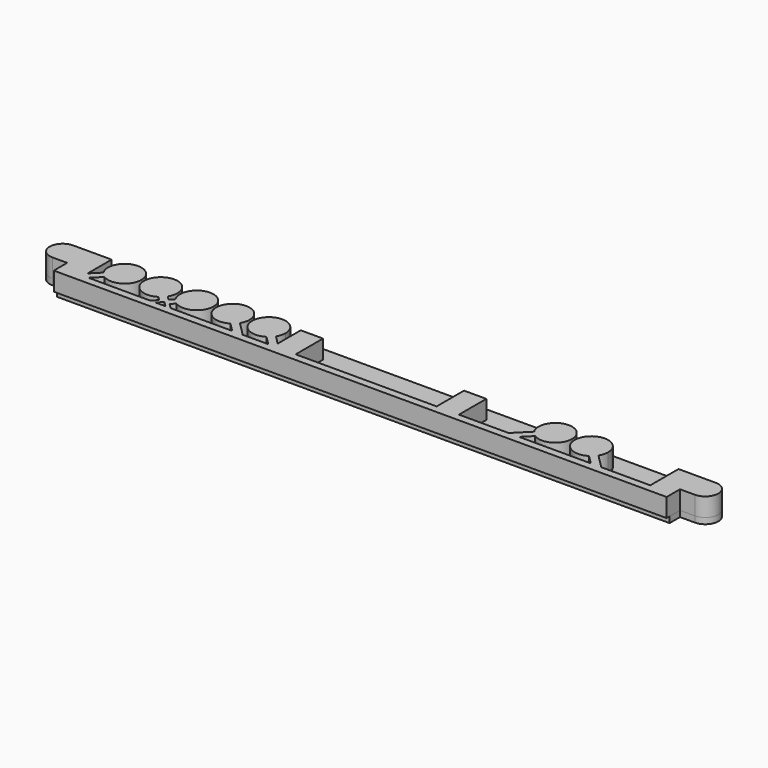
from build123d import *

# Parameters (mm, degrees)
F0_R     = 1.7
F0_R_2   = 1.914667213
F1_DEPTH = 1.6
F3_DEPTH = 5


with BuildPart() as f1:
    # F0 (on Top) → F1 (new body)
    with BuildSketch(Plane.XY):
        with BuildLine():
            Line((-82.45, -7), (0, -7))
            Line((0, -7), (82.45, -7))
            Line((82.45, -7), (82.45, -3.5))
            Line((82.45, -3.5), (86.45, -3.5))
            ThreePointArc((86.45, -3.5), (89.95, 0), (86.45, 3.5))
            Line((86.45, 3.5), (82.45, 3.5))
            Line((82.45, 3.5), (82.45, 7))
            Line((82.45, 7), (0, 7))
            Line((0, 7), (-82.45, 7))
            Line((-82.45, 7), (-82.45, 3.5))
            Line((-82.45, 3.5), (-86.45, 3.5))
            ThreePointArc((-86.45, 3.5), (-89.95, 0), (-86.45, -3.5))
            Line((-86.45, -3.5), (-82.45, -3.5))
            Line((-82.45, -3.5), (-82.45, -7))
        make_face()
        with Locations((-86.45, 0)):
            Circle(F0_R, mode=Mode.SUBTRACT)
        with Locations((-69.93, 0.2)):
            Circle(F0_R_2, mode=Mode.SUBTRACT)
        with Locations((-60.23, 0.2)):
            Circle(F0_R_2, mode=Mode.SUBTRACT)
        with Locations((-50.53, 0.2)):
            Circle(F0_R_2, mode=Mode.SUBTRACT)
        with Locations((-40.83, 0.2)):
            Circle(F0_R_2, mode=Mode.SUBTRACT)
        with Locations((-31.13, 0.2)):
            Circle(F0_R_2, mode=Mode.SUBTRACT)
        with Locations((45.95, 0.2)):
            Circle(F0_R_2, mode=Mode.SUBTRACT)
        with Locations((55.65, 0.2)):
            Circle(F0_R_2, mode=Mode.SUBTRACT)
        with Locations((86.45, 0)):
            Circle(F0_R, mode=Mode.SUBTRACT)
    extrude(amount=F1_DEPTH)


with BuildPart() as f3:
    # F2 (on face) → F3 (new body)
    with BuildSketch(Plane.XY.offset(1.6)):
        with BuildLine():
            Line((-76.094667213, 3.5), (-82.45, 3.5))
            Line((-82.45, 3.5), (-86.45, 3.5))
            ThreePointArc((-86.45, 3.5), (-89.95, 0), (-86.45, -3.5))
            Line((-86.45, -3.5), (-82.45, -3.5))
            Line((-82.45, -3.5), (-82.45, -7))
            Line((-82.45, -7), (-82.45, -8))
            Line((-82.45, -8), (-77.13, -8))
            ThreePointArc((-77.13, -8), (-78.0538795325, -7.3826834324), (-77.8371067812, -6.2928932188))
            Line((-77.8371067812, -6.2928932188), (-76.094667213, -4.5504536506))
            Line((-76.094667213, -4.5504536506), (-76.094667213, 3.5))
        make_face()
        with BuildLine():
            Line((-73.7395251927, -2.1953116303), (-76.094667213, -4.5504536506))
            Line((-76.094667213, -4.5504536506), (-76.094667213, -5.964667213))
            Line((-76.094667213, -5.964667213), (-73.1119805153, -2.9819805153))
            ThreePointArc((-73.1119805153, -2.9819805153), (-73.4478118199, -2.6062430401), (-73.7395251927, -2.1953116303))
        make_face()
        with BuildLine():
            Line((-76.094667213, -5.964667213), (-76.094667213, -4.5504536506))
            Line((-76.094667213, -4.5504536506), (-77.8371067812, -6.2928932188))
            ThreePointArc((-77.8371067812, -6.2928932188), (-78.0538795325, -7.3826834324), (-77.13, -8))
            ThreePointArc((-77.13, -8), (-76.7473165676, -7.9238795325), (-76.4228932188, -7.7071067812))
            Line((-76.4228932188, -7.7071067812), (-74.7157864376, -6))
            Line((-74.7157864376, -6), (-76.094667213, -6))
            Line((-76.094667213, -6), (-76.094667213, -5.964667213))
        make_face()
        with BuildLine():
            Line((-73.1119805153, -2.9819805153), (-76.094667213, -5.964667213))
            Line((-76.094667213, -5.964667213), (-76.094667213, -6))
            Line((-76.094667213, -6), (-74.7157864376, -6))
            Line((-74.7157864376, -6), (-72.3253116303, -3.6095251927))
            ThreePointArc((-72.3253116303, -3.6095251927), (-72.7362430401, -3.3178118199), (-73.1119805153, -2.9819805153))
        make_face()
        with BuildLine():
            ThreePointArc((-65.43, 0.2), (-71.1764222063, 4.5239370582), (-73.7395251927, -2.1953116303))
            Line((-73.7395251927, -2.1953116303), (-70.6371067812, 0.9071067812))
            ThreePointArc((-70.6371067812, 0.9071067812), (-69.2228932188, 0.9071067812), (-69.2228932188, -0.5071067812))
            Line((-69.2228932188, -0.5071067812), (-72.3253116303, -3.6095251927))
            ThreePointArc((-72.3253116303, -3.6095251927), (-67.753868379, -3.7388388096), (-65.43, 0.2))
        make_face()
        with BuildLine():
            Line((-70.6371067812, 0.9071067812), (-73.7395251927, -2.1953116303))
            ThreePointArc((-73.7395251927, -2.1953116303), (-73.4478118199, -2.6062430401), (-73.1119805153, -2.9819805153))
            ThreePointArc((-73.1119805153, -2.9819805153), (-72.7362430401, -3.3178118199), (-72.3253116303, -3.6095251927))
            Line((-72.3253116303, -3.6095251927), (-69.2228932188, -0.5071067812))
            ThreePointArc((-69.2228932188, -0.5071067812), (-69.2228932188, 0.9071067812), (-70.6371067812, 0.9071067812))
        make_face()
        with BuildLine():
            ThreePointArc((-76.4228932188, -7.7071067812), (-76.7473165676, -7.9238795325), (-77.13, -8))
            Line((-77.13, -8), (-57.73, -8))
            ThreePointArc((-57.73, -8), (-58.6538795325, -7.3826834324), (-58.4371067812, -6.2928932188))
            Line((-58.4371067812, -6.2928932188), (-58.1442135624, -6))
            Line((-58.1442135624, -6), (-74.7157864376, -6))
            Line((-74.7157864376, -6), (-76.4228932188, -7.7071067812))
        make_face()
        with BuildLine():
            ThreePointArc((-57.0228932188, -7.7071067812), (-57.3473165676, -7.9238795325), (-57.73, -8))
            Line((-57.73, -8), (-53.03, -8))
            ThreePointArc((-53.03, -8), (-53.4126834324, -7.9238795325), (-53.7371067812, -7.7071067812))
            Line((-53.7371067812, -7.7071067812), (-55.38, -6.0642135624))
            Line((-55.38, -6.0642135624), (-57.0228932188, -7.7071067812))
        make_face()
        with BuildLine():
            ThreePointArc((-58.4371067812, -6.2928932188), (-58.6538795325, -7.3826834324), (-57.73, -8))
            ThreePointArc((-57.73, -8), (-57.3473165676, -7.9238795325), (-57.0228932188, -7.7071067812))
            Line((-57.0228932188, -7.7071067812), (-55.38, -6.0642135624))
            Line((-55.38, -6.0642135624), (-55.4442135624, -6))
            Line((-55.4442135624, -6), (-56.73, -6))
            Line((-56.73, -6), (-58.1442135624, -6))
            Line((-58.1442135624, -6), (-58.4371067812, -6.2928932188))
        make_face()
        Polygon((-56.7942135624, -4.65), (-58.1442135624, -6), (-56.73, -6), (-56.0871067812, -5.3571067812), align=None)
        with BuildLine():
            ThreePointArc((-52.3228932188, -6.2928932188), (-52.1061204675, -7.3826834324), (-53.03, -8))
            Line((-53.03, -8), (-33.63, -8))
            ThreePointArc((-33.63, -8), (-34.0126834324, -7.9238795325), (-34.3371067812, -7.7071067812))
            Line((-34.3371067812, -7.7071067812), (-36.0442135624, -6))
            Line((-36.0442135624, -6), (-52.6157864376, -6))
            Line((-52.6157864376, -6), (-52.3228932188, -6.2928932188))
        make_face()
        with BuildLine():
            ThreePointArc((-53.7371067812, -7.7071067812), (-53.4126834324, -7.9238795325), (-53.03, -8))
            ThreePointArc((-53.03, -8), (-52.1061204675, -7.3826834324), (-52.3228932188, -6.2928932188))
            Line((-52.3228932188, -6.2928932188), (-52.6157864376, -6))
            Line((-52.6157864376, -6), (-54.03, -6))
            Line((-54.03, -6), (-55.3157864376, -6))
            Line((-55.3157864376, -6), (-55.38, -6.0642135624))
            Line((-55.38, -6.0642135624), (-53.7371067812, -7.7071067812))
        make_face()
        Polygon((-56.0871067812, -3.9428932188), (-56.7942135624, -4.65), (-56.0871067812, -5.3571067812), (-55.38, -4.65), align=None)
        with BuildLine():
            Line((-57.8346883697, -3.6095251927), (-56.7942135624, -4.65))
            Line((-56.7942135624, -4.65), (-56.0871067812, -3.9428932188))
            Line((-56.0871067812, -3.9428932188), (-57.0480194847, -2.9819805153))
            ThreePointArc((-57.0480194847, -2.9819805153), (-57.4237569599, -3.3178118199), (-57.8346883697, -3.6095251927))
        make_face()
        with BuildLine():
            ThreePointArc((-32.9228932188, -6.2928932188), (-32.7061204675, -7.3826834324), (-33.63, -8))
            Line((-33.63, -8), (-23.9299999506, -8))
            ThreePointArc((-23.9299999506, -8), (-24.3126834095, -7.923879542), (-24.6371067812, -7.7071067812))
            Line((-24.6371067812, -7.7071067812), (-26.3442135624, -6))
            Line((-26.3442135624, -6), (-33.2157864376, -6))
            Line((-33.2157864376, -6), (-32.9228932188, -6.2928932188))
        make_face()
        with BuildLine():
            ThreePointArc((-34.3371067812, -7.7071067812), (-34.0126834324, -7.9238795325), (-33.63, -8))
            ThreePointArc((-33.63, -8), (-32.7061204675, -7.3826834324), (-32.9228932188, -6.2928932188))
            Line((-32.9228932188, -6.2928932188), (-33.2157864376, -6))
            Line((-33.2157864376, -6), (-34.63, -6))
            Line((-34.63, -6), (-36.0442135624, -6))
            Line((-36.0442135624, -6), (-34.3371067812, -7.7071067812))
        make_face()
        with BuildLine():
            ThreePointArc((-55.73, 0.2), (-64.1688388096, 2.376131621), (-57.8346883697, -3.6095251927))
            Line((-57.8346883697, -3.6095251927), (-60.9371067812, -0.5071067812))
            ThreePointArc((-60.9371067812, -0.5071067812), (-60.9371067812, 0.9071067812), (-59.5228932188, 0.9071067812))
            Line((-59.5228932188, 0.9071067812), (-56.4204748073, -2.1953116303))
            ThreePointArc((-56.4204748073, -2.1953116303), (-55.9060629418, -1.0464222063), (-55.73, 0.2))
        make_face()
        with BuildLine():
            Line((-60.9371067812, -0.5071067812), (-57.8346883697, -3.6095251927))
            ThreePointArc((-57.8346883697, -3.6095251927), (-57.4237569599, -3.3178118199), (-57.0480194847, -2.9819805153))
            ThreePointArc((-57.0480194847, -2.9819805153), (-56.7121881801, -2.6062430401), (-56.4204748073, -2.1953116303))
            Line((-56.4204748073, -2.1953116303), (-59.5228932188, 0.9071067812))
            ThreePointArc((-59.5228932188, 0.9071067812), (-60.9371067812, 0.9071067812), (-60.9371067812, -0.5071067812))
        make_face()
        Polygon((-55.38, -3.2357864376), (-56.0871067812, -3.9428932188), (-55.38, -4.65), (-54.6728932188, -3.9428932188), align=None)
        with BuildLine():
            Line((-57.0480194847, -2.9819805153), (-56.0871067812, -3.9428932188))
            Line((-56.0871067812, -3.9428932188), (-55.38, -3.2357864376))
            Line((-55.38, -3.2357864376), (-56.4204748073, -2.1953116303))
            ThreePointArc((-56.4204748073, -2.1953116303), (-56.7121881801, -2.6062430401), (-57.0480194847, -2.9819805153))
        make_face()
        with BuildLine():
            ThreePointArc((-23.2228932188, -6.2928932188), (-23.006120458, -7.3826834095), (-23.9299999506, -8))
            Line((-23.9299999506, -8), (38.75, -8))
            ThreePointArc((38.75, -8), (37.8261204675, -7.3826834324), (38.0428932188, -6.2928932188))
            Line((38.0428932188, -6.2928932188), (38.3357864376, -6))
            Line((38.3357864376, -6), (24.965332787, -6))
            Line((24.965332787, -6), (24.965332787, 3.2))
            Line((24.965332787, 3.2), (18.965332787, 3.2))
            Line((18.965332787, 3.2), (18.965332787, -6))
            Line((18.965332787, -6), (-18.965332787, -6))
            Line((-18.965332787, -6), (-18.965332787, 3.2))
            Line((-18.965332787, 3.2), (-24.965332787, 3.2))
            Line((-24.965332787, 3.2), (-24.965332787, -4.5504536506))
            Line((-24.965332787, -4.5504536506), (-23.2228932188, -6.2928932188))
        make_face()
        with BuildLine():
            ThreePointArc((-24.6371067812, -7.7071067812), (-24.3126834095, -7.923879542), (-23.9299999506, -8))
            ThreePointArc((-23.9299999506, -8), (-23.006120458, -7.3826834095), (-23.2228932188, -6.2928932188))
            Line((-23.2228932188, -6.2928932188), (-24.965332787, -4.5504536506))
            Line((-24.965332787, -4.5504536506), (-24.965332787, -5.964667213))
            Line((-24.965332787, -5.964667213), (-24.965332787, -6))
            Line((-24.965332787, -6), (-26.3442135624, -6))
            Line((-26.3442135624, -6), (-24.6371067812, -7.7071067812))
        make_face()
        Polygon((-54.03, -6), (-52.6157864376, -6), (-53.9657864376, -4.65), (-54.6728932188, -5.3571067812), align=None)
        Polygon((-54.6728932188, -3.9428932188), (-55.38, -4.65), (-54.6728932188, -5.3571067812), (-53.9657864376, -4.65), align=None)
        with BuildLine():
            Line((-54.3395251927, -2.1953116303), (-55.38, -3.2357864376))
            Line((-55.38, -3.2357864376), (-54.6728932188, -3.9428932188))
            Line((-54.6728932188, -3.9428932188), (-53.7119805153, -2.9819805153))
            ThreePointArc((-53.7119805153, -2.9819805153), (-54.0478118199, -2.6062430401), (-54.3395251927, -2.1953116303))
        make_face()
        with BuildLine():
            ThreePointArc((39.4571067812, -7.7071067812), (39.1326834324, -7.9238795325), (38.75, -8))
            Line((38.75, -8), (62.85, -8))
            ThreePointArc((62.85, -8), (62.4673165676, -7.9238795325), (62.1428932188, -7.7071067812))
            Line((62.1428932188, -7.7071067812), (60.4357864376, -6))
            Line((60.4357864376, -6), (41.1642135624, -6))
            Line((41.1642135624, -6), (39.4571067812, -7.7071067812))
        make_face()
        with BuildLine():
            ThreePointArc((38.0428932188, -6.2928932188), (37.8261204675, -7.3826834324), (38.75, -8))
            ThreePointArc((38.75, -8), (39.1326834324, -7.9238795325), (39.4571067812, -7.7071067812))
            Line((39.4571067812, -7.7071067812), (41.1642135624, -6))
            Line((41.1642135624, -6), (39.75, -6))
            Line((39.75, -6), (38.3357864376, -6))
            Line((38.3357864376, -6), (38.0428932188, -6.2928932188))
        make_face()
        with BuildLine():
            Line((-34.63, -6), (-33.2157864376, -6))
            Line((-33.2157864376, -6), (-37.0204748073, -2.1953116303))
            ThreePointArc((-37.0204748073, -2.1953116303), (-37.3121881801, -2.6062430401), (-37.6480194847, -2.9819805153))
            Line((-37.6480194847, -2.9819805153), (-34.63, -6))
        make_face()
        with BuildLine():
            Line((-38.4346883697, -3.6095251927), (-36.0442135624, -6))
            Line((-36.0442135624, -6), (-34.63, -6))
            Line((-34.63, -6), (-37.6480194847, -2.9819805153))
            ThreePointArc((-37.6480194847, -2.9819805153), (-38.0237569599, -3.3178118199), (-38.4346883697, -3.6095251927))
        make_face()
        with BuildLine():
            Line((-54.6728932188, -3.9428932188), (-53.9657864376, -4.65))
            Line((-53.9657864376, -4.65), (-52.9253116303, -3.6095251927))
            ThreePointArc((-52.9253116303, -3.6095251927), (-53.3362430401, -3.3178118199), (-53.7119805153, -2.9819805153))
            Line((-53.7119805153, -2.9819805153), (-54.6728932188, -3.9428932188))
        make_face()
        with BuildLine():
            ThreePointArc((-46.03, 0.2), (-51.7764222063, 4.5239370582), (-54.3395251927, -2.1953116303))
            Line((-54.3395251927, -2.1953116303), (-51.2371067812, 0.9071067812))
            ThreePointArc((-51.2371067812, 0.9071067812), (-49.8228932188, 0.9071067812), (-49.8228932188, -0.5071067812))
            Line((-49.8228932188, -0.5071067812), (-52.9253116303, -3.6095251927))
            ThreePointArc((-52.9253116303, -3.6095251927), (-48.353868379, -3.7388388096), (-46.03, 0.2))
        make_face()
        with BuildLine():
            Line((-51.2371067812, 0.9071067812), (-54.3395251927, -2.1953116303))
            ThreePointArc((-54.3395251927, -2.1953116303), (-54.0478118199, -2.6062430401), (-53.7119805153, -2.9819805153))
            ThreePointArc((-53.7119805153, -2.9819805153), (-53.3362430401, -3.3178118199), (-52.9253116303, -3.6095251927))
            Line((-52.9253116303, -3.6095251927), (-49.8228932188, -0.5071067812))
            ThreePointArc((-49.8228932188, -0.5071067812), (-49.8228932188, 0.9071067812), (-51.2371067812, 0.9071067812))
        make_face()
        with BuildLine():
            ThreePointArc((63.5571067812, -6.2928932188), (63.7738795325, -7.3826834324), (62.85, -8))
            Line((62.85, -8), (82.45, -8))
            Line((82.45, -8), (82.45, -3.5))
            Line((82.45, -3.5), (86.45, -3.5))
            ThreePointArc((86.45, -3.5), (89.95, 0), (86.45, 3.5))
            Line((86.45, 3.5), (82.45, 3.5))
            Line((82.45, 3.5), (76.45, 3.5))
            Line((76.45, 3.5), (76.45, -6))
            Line((76.45, -6), (63.2642135624, -6))
            Line((63.2642135624, -6), (63.5571067812, -6.2928932188))
        make_face()
        with BuildLine():
            ThreePointArc((62.1428932188, -7.7071067812), (62.4673165676, -7.9238795325), (62.85, -8))
            ThreePointArc((62.85, -8), (63.7738795325, -7.3826834324), (63.5571067812, -6.2928932188))
            Line((63.5571067812, -6.2928932188), (63.2642135624, -6))
            Line((63.2642135624, -6), (61.85, -6))
            Line((61.85, -6), (60.4357864376, -6))
            Line((60.4357864376, -6), (62.1428932188, -7.7071067812))
        make_face()
        with BuildLine():
            Line((-24.965332787, -5.964667213), (-24.965332787, -4.5504536506))
            Line((-24.965332787, -4.5504536506), (-27.3204748073, -2.1953116303))
            ThreePointArc((-27.3204748073, -2.1953116303), (-27.6121881801, -2.6062430401), (-27.9480194847, -2.9819805153))
            Line((-27.9480194847, -2.9819805153), (-24.965332787, -5.964667213))
        make_face()
        with BuildLine():
            Line((-28.7346883697, -3.6095251927), (-26.3442135624, -6))
            Line((-26.3442135624, -6), (-24.965332787, -6))
            Line((-24.965332787, -6), (-24.965332787, -5.964667213))
            Line((-24.965332787, -5.964667213), (-27.9480194847, -2.9819805153))
            ThreePointArc((-27.9480194847, -2.9819805153), (-28.3237569599, -3.3178118199), (-28.7346883697, -3.6095251927))
        make_face()
        with BuildLine():
            ThreePointArc((-37.6480194847, -2.9819805153), (-37.3121881801, -2.6062430401), (-37.0204748073, -2.1953116303))
            Line((-37.0204748073, -2.1953116303), (-40.1228932188, 0.9071067812))
            ThreePointArc((-40.1228932188, 0.9071067812), (-41.5371067812, 0.9071067812), (-41.5371067812, -0.5071067812))
            Line((-41.5371067812, -0.5071067812), (-38.4346883697, -3.6095251927))
            ThreePointArc((-38.4346883697, -3.6095251927), (-38.0237569599, -3.3178118199), (-37.6480194847, -2.9819805153))
        make_face()
        with BuildLine():
            Line((-40.1228932188, 0.9071067812), (-37.0204748073, -2.1953116303))
            ThreePointArc((-37.0204748073, -2.1953116303), (-36.5060629418, -1.0464222063), (-36.33, 0.2))
            ThreePointArc((-36.33, 0.2), (-44.7688388096, 2.376131621), (-38.4346883697, -3.6095251927))
            Line((-38.4346883697, -3.6095251927), (-41.5371067812, -0.5071067812))
            ThreePointArc((-41.5371067812, -0.5071067812), (-41.5371067812, 0.9071067812), (-40.1228932188, 0.9071067812))
        make_face()
        with BuildLine():
            Line((39.75, -6), (41.1642135624, -6))
            Line((41.1642135624, -6), (43.5546883697, -3.6095251927))
            ThreePointArc((43.5546883697, -3.6095251927), (43.1437569599, -3.3178118199), (42.7680194847, -2.9819805153))
            Line((42.7680194847, -2.9819805153), (39.75, -6))
        make_face()
        with BuildLine():
            Line((42.1404748073, -2.1953116303), (38.3357864376, -6))
            Line((38.3357864376, -6), (39.75, -6))
            Line((39.75, -6), (42.7680194847, -2.9819805153))
            ThreePointArc((42.7680194847, -2.9819805153), (42.4321881801, -2.6062430401), (42.1404748073, -2.1953116303))
        make_face()
        with BuildLine():
            ThreePointArc((-27.9480194847, -2.9819805153), (-27.6121881801, -2.6062430401), (-27.3204748073, -2.1953116303))
            Line((-27.3204748073, -2.1953116303), (-30.4228932188, 0.9071067812))
            ThreePointArc((-30.4228932188, 0.9071067812), (-31.8371067812, 0.9071067812), (-31.8371067812, -0.5071067812))
            Line((-31.8371067812, -0.5071067812), (-28.7346883697, -3.6095251927))
            ThreePointArc((-28.7346883697, -3.6095251927), (-28.3237569599, -3.3178118199), (-27.9480194847, -2.9819805153))
        make_face()
        with BuildLine():
            Line((-30.4228932188, 0.9071067812), (-27.3204748073, -2.1953116303))
            ThreePointArc((-27.3204748073, -2.1953116303), (-26.8060629418, -1.0464222063), (-26.63, 0.2))
            ThreePointArc((-26.63, 0.2), (-35.0688388096, 2.376131621), (-28.7346883697, -3.6095251927))
            Line((-28.7346883697, -3.6095251927), (-31.8371067812, -0.5071067812))
            ThreePointArc((-31.8371067812, -0.5071067812), (-31.8371067812, 0.9071067812), (-30.4228932188, 0.9071067812))
        make_face()
        with BuildLine():
            Line((61.85, -6), (63.2642135624, -6))
            Line((63.2642135624, -6), (59.4595251927, -2.1953116303))
            ThreePointArc((59.4595251927, -2.1953116303), (59.1678118199, -2.6062430401), (58.8319805153, -2.9819805153))
            Line((58.8319805153, -2.9819805153), (61.85, -6))
        make_face()
        with BuildLine():
            Line((58.0453116303, -3.6095251927), (60.4357864376, -6))
            Line((60.4357864376, -6), (61.85, -6))
            Line((61.85, -6), (58.8319805153, -2.9819805153))
            ThreePointArc((58.8319805153, -2.9819805153), (58.4562430401, -3.3178118199), (58.0453116303, -3.6095251927))
        make_face()
        with BuildLine():
            ThreePointArc((42.7680194847, -2.9819805153), (43.1437569599, -3.3178118199), (43.5546883697, -3.6095251927))
            Line((43.5546883697, -3.6095251927), (46.6571067812, -0.5071067812))
            ThreePointArc((46.6571067812, -0.5071067812), (46.6571067812, 0.9071067812), (45.2428932188, 0.9071067812))
            Line((45.2428932188, 0.9071067812), (42.1404748073, -2.1953116303))
            ThreePointArc((42.1404748073, -2.1953116303), (42.4321881801, -2.6062430401), (42.7680194847, -2.9819805153))
        make_face()
        with BuildLine():
            Line((46.6571067812, -0.5071067812), (43.5546883697, -3.6095251927))
            ThreePointArc((43.5546883697, -3.6095251927), (48.126131621, -3.7388388096), (50.45, 0.2))
            ThreePointArc((50.45, 0.2), (44.7035777937, 4.5239370582), (42.1404748073, -2.1953116303))
            Line((42.1404748073, -2.1953116303), (45.2428932188, 0.9071067812))
            ThreePointArc((45.2428932188, 0.9071067812), (46.6571067812, 0.9071067812), (46.6571067812, -0.5071067812))
        make_face()
        with BuildLine():
            ThreePointArc((58.8319805153, -2.9819805153), (59.1678118199, -2.6062430401), (59.4595251927, -2.1953116303))
            Line((59.4595251927, -2.1953116303), (56.3571067812, 0.9071067812))
            ThreePointArc((56.3571067812, 0.9071067812), (54.9428932188, 0.9071067812), (54.9428932188, -0.5071067812))
            Line((54.9428932188, -0.5071067812), (58.0453116303, -3.6095251927))
            ThreePointArc((58.0453116303, -3.6095251927), (58.4562430401, -3.3178118199), (58.8319805153, -2.9819805153))
        make_face()
        with BuildLine():
            Line((56.3571067812, 0.9071067812), (59.4595251927, -2.1953116303))
            ThreePointArc((59.4595251927, -2.1953116303), (59.9739370582, -1.0464222063), (60.15, 0.2))
            ThreePointArc((60.15, 0.2), (51.7111611904, 2.376131621), (58.0453116303, -3.6095251927))
            Line((58.0453116303, -3.6095251927), (54.9428932188, -0.5071067812))
            ThreePointArc((54.9428932188, -0.5071067812), (54.9428932188, 0.9071067812), (56.3571067812, 0.9071067812))
        make_face()
    extrude(amount=F3_DEPTH)


solid = Compound([f1.part, f3.part])
